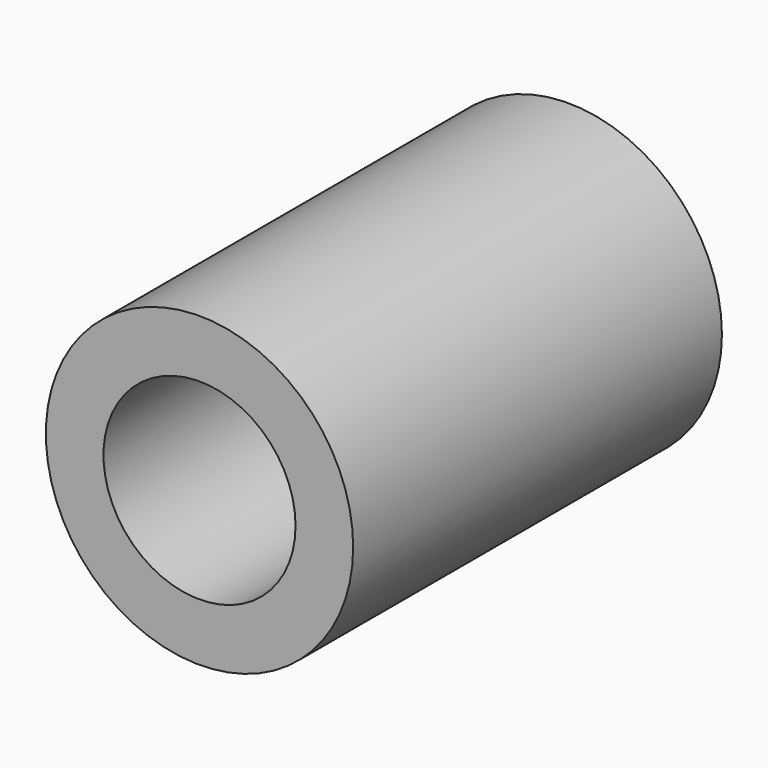
from build123d import *

# Parameters (mm, degrees)
F0_R     = 4
F1_DEPTH = 6
F2_R     = 2.5
F3_DEPTH = 12.5


with BuildPart() as f1:
    # F0 (on Front) → F1 (new body, symmetric)
    with BuildSketch(Plane.XZ):
        Circle(F0_R)
    extrude(amount=F1_DEPTH, both=True)

    # F2 (on Front) → F3 (cut, symmetric)
    with BuildSketch(Plane.XZ):
        Circle(F2_R)
    extrude(amount=F3_DEPTH, both=True, mode=Mode.SUBTRACT)


solid = f1.part
